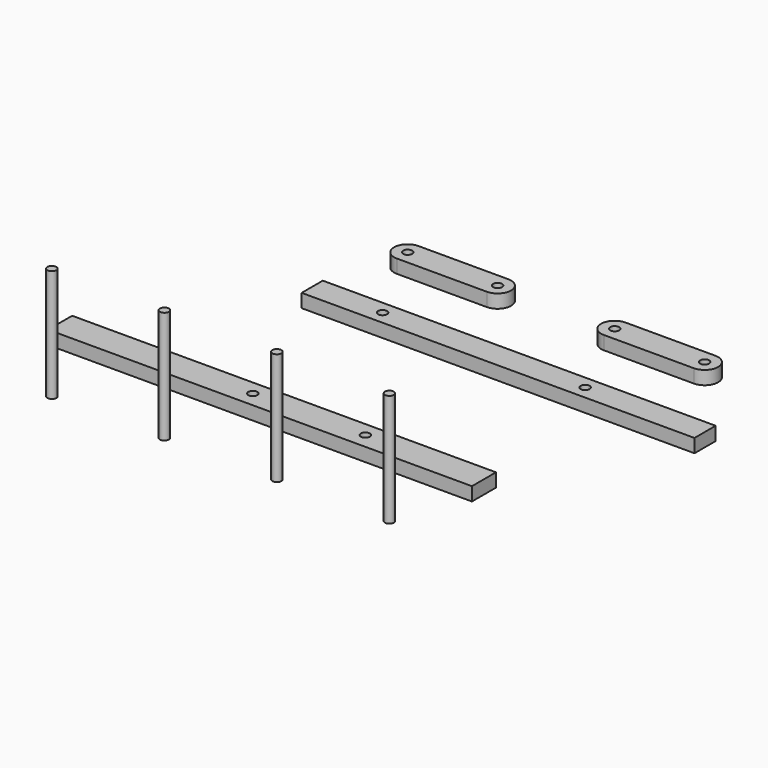
from build123d import *

# Parameters (mm, degrees)
F0_W     = 87.281581
F0_H     = 5.872775
F0_R     = 1
F0_W_2   = 94.166901
F0_H_2   = 6.682812
F1_DEPTH = 3
F2_R     = 1
F3_DEPTH = 25


with BuildPart() as f1:
    # F0 (on Top) → F1 (new body)
    with BuildSketch(Plane.XY):
        with Locations((2.136743, 31.249867)):
            Rectangle(F0_W, F0_H)
        with Locations((-25.887815, 31.276207)):
            Circle(F0_R, mode=Mode.SUBTRACT)
        with Locations((19.112185, 31.276207)):
            Circle(F0_R, mode=Mode.SUBTRACT)
        with Locations((-20.139302, -6.619404)):
            Rectangle(F0_W_2, F0_H_2)
        with Locations((-24.493255, -6.518149)):
            Circle(F0_R, mode=Mode.SUBTRACT)
        with Locations((0.506745, -6.518149)):
            Circle(F0_R, mode=Mode.SUBTRACT)
        with BuildLine():
            ThreePointArc((-36.671761, 54.704433), (-39.679757, 51.708443), (-36.67976, 48.704444))
            Line((-36.67976, 48.704444), (-16.67976, 48.704444))
            ThreePointArc((-16.67976, 48.704444), (-13.67976, 51.704445), (-16.679761, 54.704444))
            Line((-16.679761, 54.704444), (-36.671761, 54.704433))
        make_face()
        with Locations((-36.67976, 51.704444)):
            Circle(F0_R, mode=Mode.SUBTRACT)
        with Locations((-16.67976, 51.704444)):
            Circle(F0_R, mode=Mode.SUBTRACT)
        with BuildLine():
            Line((29.320239, 54.704444), (9.328239, 54.704433))
            ThreePointArc((9.328239, 54.704433), (6.320243, 51.708443), (9.32024, 48.704444))
            Line((9.32024, 48.704444), (29.32024, 48.704444))
            ThreePointArc((29.32024, 48.704444), (32.32024, 51.704445), (29.320239, 54.704444))
        make_face()
        with Locations((9.32024, 51.704444)):
            Circle(F0_R, mode=Mode.SUBTRACT)
        with Locations((29.32024, 51.704444)):
            Circle(F0_R, mode=Mode.SUBTRACT)
    extrude(amount=F1_DEPTH)


with BuildPart() as f3:
    # F2 (on Top) → F3 (new body)
    with BuildSketch(Plane.XY):
        with Locations((-54.647017, -24.637852)):
            Circle(F2_R)
        with Locations((-29.647017, -24.637852)):
            Circle(F2_R)
        with Locations((-4.647017, -24.637852)):
            Circle(F2_R)
        with Locations((20.352983, -24.637852)):
            Circle(F2_R)
    extrude(amount=F3_DEPTH)


solid = Compound([f1.part, f3.part])
